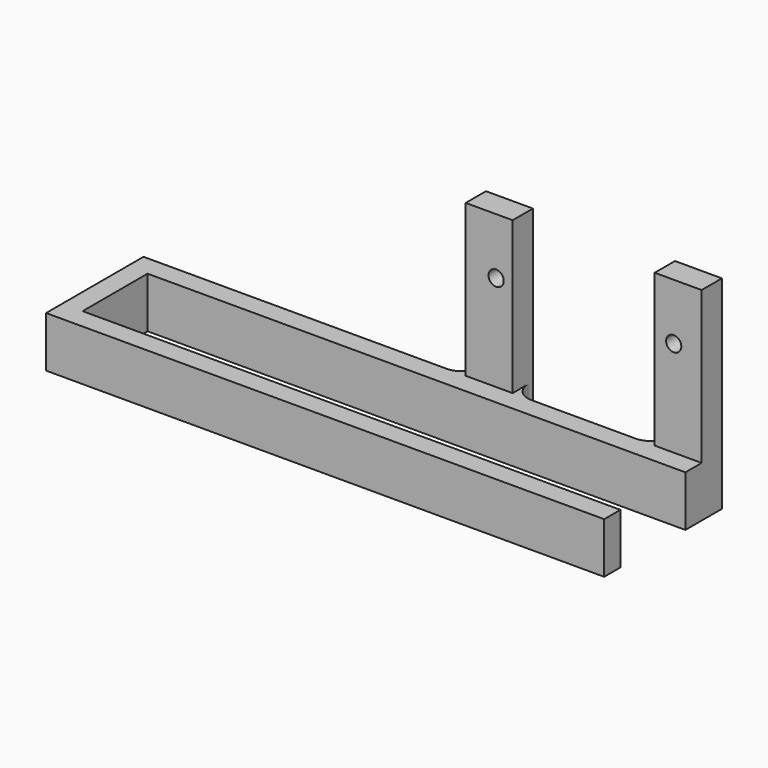
from build123d import *

# Parameters (mm, degrees)
PAD001_DEPTH    = 10
SKETCH005_W     = 9.25
SKETCH005_H     = 5
PAD002_DEPTH    = 30
SKETCH006_R     = 1.5
POCKET001_DEPTH = 11


with BuildPart() as part:
    # Sketch002 → Pad001 (new body)
    with BuildSketch(Plane.XY):
        with BuildLine():
            Line((-39.757408, -23.461055), (-19.235308, -23.461055))
            ThreePointArc((-19.235308, -23.461055), (-16.591471, -22.365942), (-15.496358, -19.722105))
            Line((-15.496358, -19.722105), (-15.496358, -18.461055))
            Line((-15.496358, -18.461055), (-6.246358, -18.461055))
            Line((-6.246358, -18.461055), (-6.246358, -27.461055))
            Line((-6.246358, -27.461055), (-112.246358, -27.461055))
            Line((-112.246358, -27.461055), (-112.246358, -43.461055))
            Line((-112.246358, -43.461055), (-6.246358, -43.461055))
            Line((-6.246358, -43.461055), (-6.246358, -47.461055))
            Line((-6.246358, -47.461055), (-116.246358, -47.461055))
            Line((-116.246358, -47.461055), (-116.246358, -23.461055))
            Line((-116.246358, -23.461055), (-56.485308, -23.461055))
            ThreePointArc((-56.485308, -23.461055), (-53.841471, -22.365942), (-52.746358, -19.722105))
            Line((-52.746358, -19.722105), (-52.746358, -18.461055))
            Line((-52.746358, -18.461055), (-43.496358, -18.461055))
            Line((-43.496358, -18.461055), (-43.496358, -19.722105))
            ThreePointArc((-43.496358, -19.722105), (-42.401245, -22.365942), (-39.757408, -23.461055))
        make_face()
    extrude(amount=PAD001_DEPTH)

    # Sketch005 → Pad002 (new body)
    with BuildSketch(Plane.XY.offset(10)):
        with Locations((-10.871358, -20.961055)):
            Rectangle(SKETCH005_W, SKETCH005_H)
        with Locations((-48.121358, -20.961055)):
            Rectangle(SKETCH005_W, SKETCH005_H)
    extrude(amount=PAD002_DEPTH)

    # Sketch006 → Pocket001 (cut)
    with BuildSketch(Plane.XZ.offset(23.461055)):
        with Locations((-46.746358, 28.9)):
            Circle(SKETCH006_R)
        with Locations((-11.746358, 28.9)):
            Circle(SKETCH006_R)
    extrude(amount=-POCKET001_DEPTH, mode=Mode.SUBTRACT)


solid = part.part
